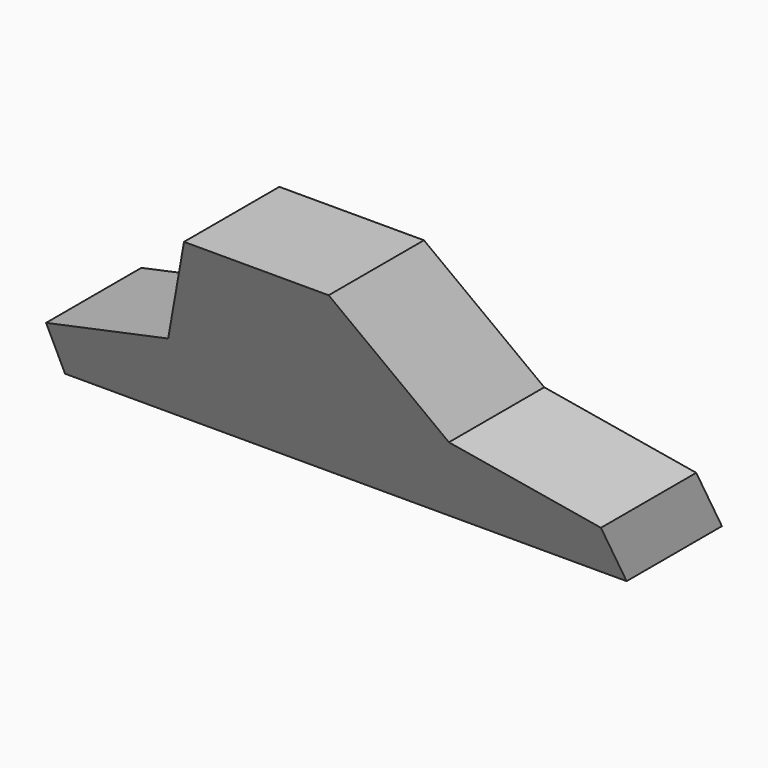
from build123d import *


with BuildPart() as f6:
    # F5 (on plane+point) → F6 section 0
    with BuildSketch(Plane(origin=(0, -22.6192606546, -11.0321505505), x_dir=(-1, 0, 0), z_dir=(0, 0.8987940463, 0.4383711468))):
        Polygon((-66, 12.2743921101), (0, 12.2743921101), (66, 12.2743921101), (65.2149606564, 27.2538351314), (33, 37.2743921101), (17, 72.2743921101), (0, 72.2743921101), (-17, 72.2743921101), (-33, 37.2743921101), (-65.2149606564, 27.2538351314), align=None)
    # F2 (on line) → F6 section 1
    with BuildSketch(Plane(origin=(0, 0, 0), x_dir=(-1, 0, 0), z_dir=(0, 0.8987940463, 0.4383711468))):
        Polygon((-66, 0), (0, 0), (66, 0), (65.2149606564, 14.9794430213), (33, 25), (17, 60), (0, 60), (-17, 60), (-33, 25), (-65.2149606564, 14.9794430213), align=None)
    loft()


solid = f6.part
